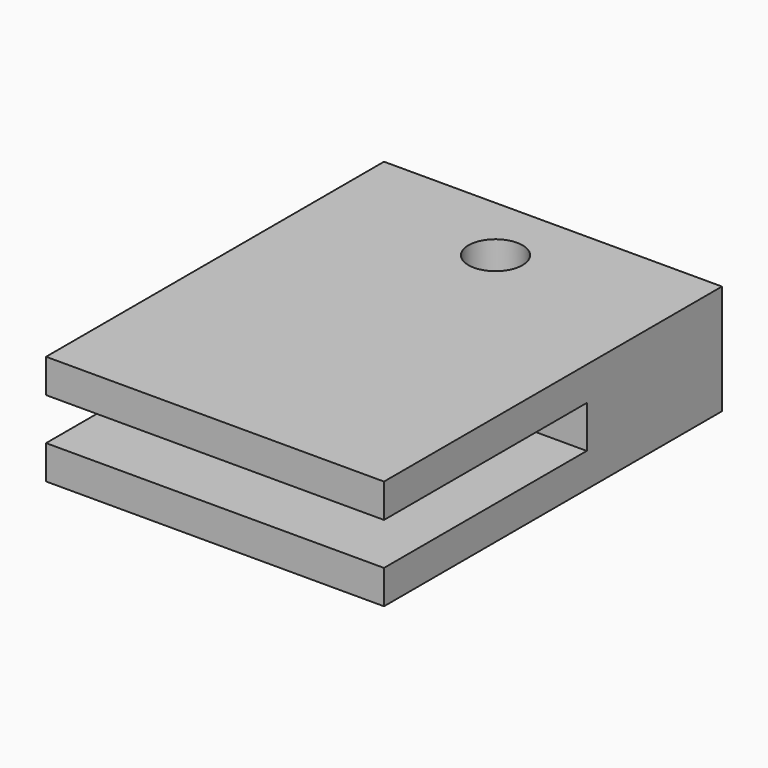
from build123d import *

# Parameters (mm, degrees)
F1_DEPTH = 20
F2_R     = 1.6
F3_DEPTH = 6.5


with BuildPart() as f1:
    # F0 (on Right) → F1 (new body)
    with BuildSketch(Plane.YZ):
        Polygon((3.372753, 34.132451), (-21.627247, 34.132451), (-21.627247, 32.132451), (-6.627247, 32.132451), (-6.627247, 29.632451), (-21.627247, 29.632451), (-21.627247, 27.632451), (3.372753, 27.632451), align=None)
    extrude(amount=-F1_DEPTH)

    # F2 (on face) → F3 (cut)
    with BuildSketch(Plane(origin=(0, 0, 27.632451), x_dir=(1, 0, 0), z_dir=(0, 0, -1))):
        with Locations((-10.128693, 0.716647)):
            Circle(F2_R)
    extrude(amount=-F3_DEPTH, mode=Mode.SUBTRACT)


solid = f1.part
